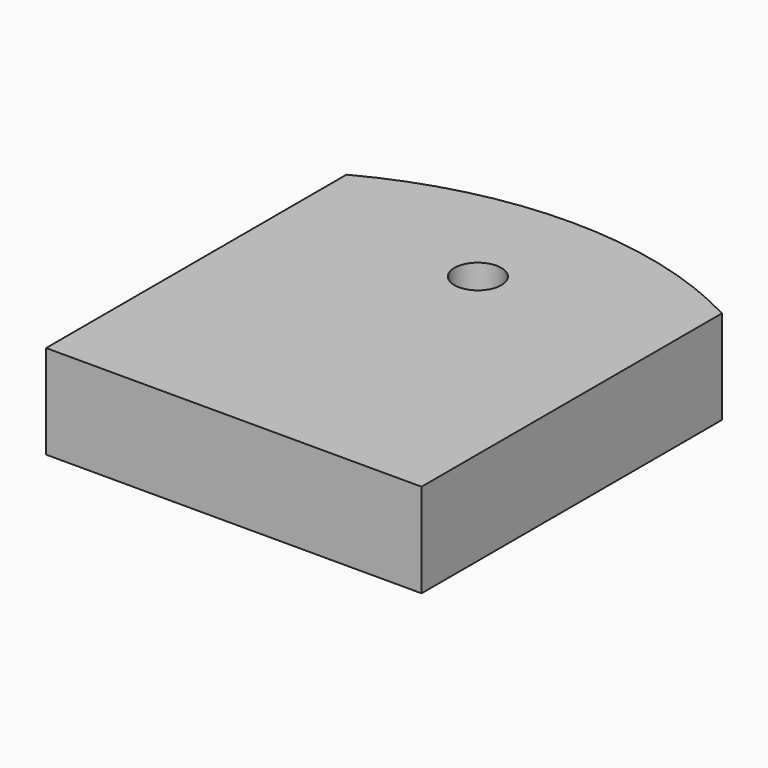
from build123d import *

# Parameters (mm, degrees)
F1_DEPTH = 50.8
F2_R     = 12.7
F3_DEPTH = 50.8


with BuildPart() as f1:
    # F0 (on Top) → F1 (new body)
    with BuildSketch(Plane.XY):
        with BuildLine():
            Line((-101.6, 101.6), (-101.6, 0))
            Line((-101.6, 0), (-101.6, -101.6))
            Line((-101.6, -101.6), (101.6, -101.6))
            Line((101.6, -101.6), (101.6, 0))
            Line((101.6, 0), (101.6, 101.6))
            ThreePointArc((101.6, 101.6), (0, 127), (-101.6, 101.6))
        make_face()
    extrude(amount=F1_DEPTH)

    # F2 (on face) → F3 (cut)
    with BuildSketch(Plane.XY.offset(50.8)):
        with Locations((0, 63.5)):
            Circle(F2_R)
    extrude(amount=-F3_DEPTH, mode=Mode.SUBTRACT)


solid = f1.part
